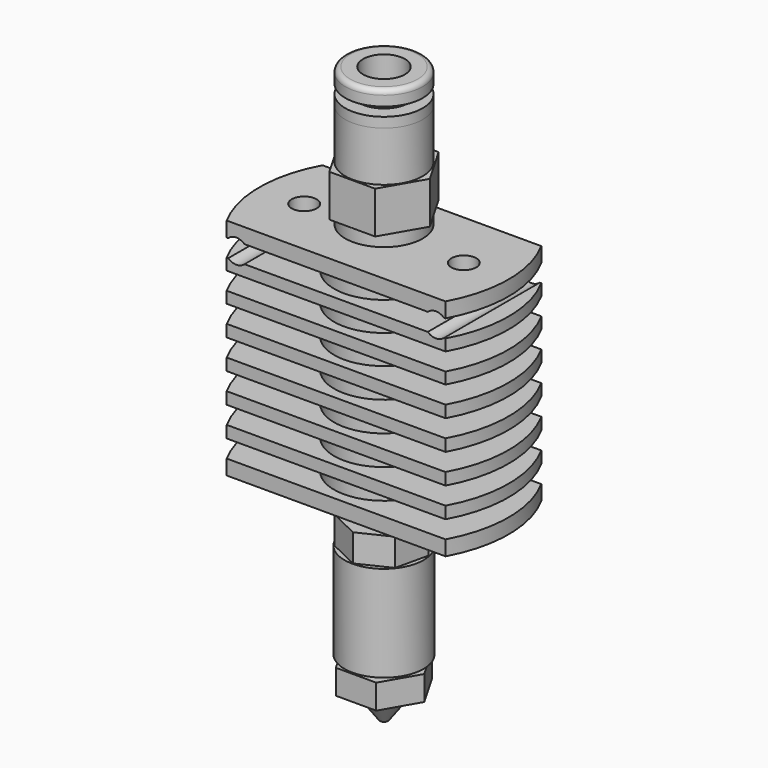
from build123d import *

# Parameters (mm, degrees)
F0_W      = 5
F0_H      = 1.5
F0_W_2    = 7.5
F0_H_2    = 1.7714285714
F0_H_3    = 1.15
F0_H_4    = 1.2
F2_W      = 21.9317121995
F2_H      = 6.5
F3_DEPTH  = 22.501
F5_D      = 4.2
F6_D      = 2.5
F6_DEPTH  = 2
F6_TIP    = 0.7510757738
F7_W      = 1.385
F7_H      = 19.28
F7_W_2    = 1.115
F7_H_2    = 2.3
F7_H_3    = 12.7
F10_DEPTH = 2.75
F12_D     = 3.3
F12_DEPTH = 5.5
F12_TIP   = 0.9914200214
F13_R     = 0.96
F14_DEPTH = 34.281
F15_R     = 3.96
F15_R_2   = 2.5
F16_DEPTH = 9.6
F19_R     = 0.97
F20_DEPTH = 2.47
F24_R     = 2.7289614246
F25_DEPTH = 4.22
F27_D     = 2.4


with BuildPart() as f1:
    # F0 (on Front) → F1 (revolve)
    with BuildSketch(Plane.XZ):
        with Locations((2.5, -0.75)):
            Rectangle(F0_W, F0_H)
        with Locations((8.75, -0.75)):
            Rectangle(F0_W_2, F0_H)
        with Locations((2.5, -2.3857142857)):
            Rectangle(F0_W, F0_H_2)
        with Locations((2.5, -3.8464285714)):
            Rectangle(F0_W, F0_H_3)
        with Locations((8.75, -3.8464285714)):
            Rectangle(F0_W_2, F0_H_3)
        with Locations((2.5, -5.3071428571)):
            Rectangle(F0_W, F0_H_2)
        with Locations((2.5, -6.7678571429)):
            Rectangle(F0_W, F0_H_3)
        with Locations((8.75, -6.7678571429)):
            Rectangle(F0_W_2, F0_H_3)
        with Locations((2.5, -8.2285714286)):
            Rectangle(F0_W, F0_H_2)
        with Locations((2.5, -9.7142857143)):
            Rectangle(F0_W, F0_H_4)
        with Locations((8.75, -9.7142857143)):
            Rectangle(F0_W_2, F0_H_4)
        with Locations((2.5, -11.2)):
            Rectangle(F0_W, F0_H_2)
        with Locations((2.5, -12.6857142857)):
            Rectangle(F0_W, F0_H_4)
        with Locations((8.75, -12.6857142857)):
            Rectangle(F0_W_2, F0_H_4)
        with Locations((2.5, -14.1714285714)):
            Rectangle(F0_W, F0_H_2)
        with Locations((2.5, -15.6571428571)):
            Rectangle(F0_W, F0_H_4)
        with Locations((8.75, -15.6571428571)):
            Rectangle(F0_W_2, F0_H_4)
        with Locations((2.5, -17.1428571429)):
            Rectangle(F0_W, F0_H_2)
        with Locations((2.5, -18.6285714286)):
            Rectangle(F0_W, F0_H_4)
        with Locations((8.75, -18.6285714286)):
            Rectangle(F0_W_2, F0_H_4)
        with Locations((2.5, -20.1142857143)):
            Rectangle(F0_W, F0_H_2)
        with Locations((2.5, -21.75)):
            Rectangle(F0_W, F0_H)
        with Locations((8.75, -21.75)):
            Rectangle(F0_W_2, F0_H)
    revolve(axis=Axis((0, 0, -15.0359268821), (0, 0, -1)))

    # F2 (on Top) → F3 (cut, through all)
    with BuildSketch(Plane.XY):
        with Locations((0, -9.25)):
            Rectangle(F2_W, F2_H)
        with Locations((0, 9.25)):
            Rectangle(F2_W, F2_H)
    extrude(amount=-F3_DEPTH, mode=Mode.SUBTRACT)

    # F5 (through all)
    with Locations(Plane.XY):
        with Locations((0, 0)):
            Hole(F5_D / 2)

    # F6
    with Locations(Plane.XY):
        with Locations((-8, 0), (8, 0)):
            Hole(F6_D / 2, depth=F6_DEPTH)
            with Locations((0, 0, -(F6_DEPTH + F6_TIP / 2))):  # 118° drill point
                Cone(0, F6_D / 2, F6_TIP, mode=Mode.SUBTRACT)

    # F27 (through all)
    with Locations(Plane.XZ.offset(6)):
        with Locations((-10, -2.3857142857), (10, -2.3857142857)):
            Hole(F27_D / 2)


with BuildPart() as f8:
    # F7 (on Front) → F8 (revolve)
    with BuildSketch(Plane.XZ):
        with Locations((0.6925, -12.86)):
            Rectangle(F7_W, F7_H)
        with Locations((1.9425, -12.86)):
            Rectangle(F7_W_2, F7_H)
        with Locations((0.6925, -23.65)):
            Rectangle(F7_W, F7_H_2)
        with Locations((0.6925, -31.15)):
            Rectangle(F7_W, F7_H_3)
        with Locations((1.9425, -31.15)):
            Rectangle(F7_W_2, F7_H_3)
    revolve(axis=Axis((0, 0, -14.0211293474), (0, 0, -1)))

    # F9 (on face) → F10 (join)
    with BuildSketch(Plane.XY.offset(-24.8)):
        Polygon((3.7873092114, 0.864428613), (1.6855111658, 3.5), (-1.6855111658, 3.5), (-3.7873092114, 0.864428613), (-3.0371861738, -2.4220751507), (0, -3.8847069246), (3.0371861738, -2.4220751507), align=None)
    extrude(amount=-F10_DEPTH)

    # F12
    with Locations(Plane(origin=(0, 0, -37.5), x_dir=(1, 0, 0), z_dir=(0, 0, -1))):
        with Locations((0, 0)):
            Hole(F12_D / 2, depth=F12_DEPTH)
            with Locations((0, 0, -(F12_DEPTH + F12_TIP / 2))):  # 118° drill point
                Cone(0, F12_D / 2, F12_TIP, mode=Mode.SUBTRACT)

    # F13 (on face) → F14 (cut, through all)
    with BuildSketch(Plane.XY.offset(-3.22)):
        Circle(F13_R)
    extrude(amount=-F14_DEPTH, mode=Mode.SUBTRACT)


with BuildPart() as f16:
    # F15 (on face) → F16 (new body)
    with BuildSketch(Plane(origin=(0, 0, -27.55), x_dir=(1, 0, 0), z_dir=(0, 0, -1))):
        Circle(F15_R)
        Circle(F15_R_2, mode=Mode.SUBTRACT)
    extrude(amount=F16_DEPTH)


with BuildPart() as f18:
    # F17 (on Front) → F18 (revolve)
    with BuildSketch(Plane.XZ):
        Polygon((1.945, -32.31), (0.97, -32.31), (0.97, -40.3963208782), (0.2, -41.73), (0.2, -42.9), (0.41, -42.9), (2.5, -40.04), (3.5, -40.04), (3.5, -37.57), (1.665, -37.57), (1.665, -36.31), (1.945, -36.31), align=None)
    revolve(axis=Axis((0, 0, -20.0307343887), (0, 0, -1)))

    # F19 (on face) → F20 (join, through all)
    with BuildSketch(Plane.XY.offset(-37.57)):
        Polygon((-4.0414518843, 0), (-2.0207259422, -3.5), (2.0207259422, -3.5), (4.0414518843, 0), (2.0207259422, 3.5), (-2.0207259422, 3.5), align=None)
        Circle(F19_R, mode=Mode.SUBTRACT)
    extrude(amount=-F20_DEPTH)


with BuildPart() as f22:
    # F21 (on Front) → F22 (revolve)
    with BuildSketch(Plane.XZ):
        Polygon((3.88, 11.3), (2.7289614246, 11.3), (2.7289614246, 1.8), (1.055, 1.8), (1.055, -3.2), (2.455, -3.2), (2.455, -0.05), (2.11, -0.05), (2.11, 0.8), (3.88, 0.8), align=None)
    revolve(axis=Axis((0, 0, -6.213388286), (0, 0, -1)))

    # F24 (on offset) → F25 (join)
    with BuildSketch(Plane(origin=(0, 0, 6.3), x_dir=(1, 0, 0), z_dir=(0, 0, -1))):
        Polygon((-4.5899346401, 0), (-2.29496732, -3.975), (2.29496732, -3.975), (4.5899346401, 0), (2.29496732, 3.975), (-2.29496732, 3.975), align=None)
        Circle(F24_R, mode=Mode.SUBTRACT)
    extrude(amount=F25_DEPTH)


with BuildPart() as f29:
    # F28 (on Front) → F29 (revolve)
    with BuildSketch(Plane.XZ):
        with BuildLine():
            Line((3.88, 11.3), (3.88, 12.3))
            Line((3.88, 12.3), (2.475, 12.3))
            Line((2.475, 12.3), (2.475, 13.2))
            Line((2.475, 13.2), (3.88, 13.2))
            Line((3.88, 13.2), (3.88, 14.2))
            ThreePointArc((3.88, 14.2), (3.7335533906, 14.5535533906), (3.38, 14.7))
            Line((3.38, 14.7), (2.095, 14.7))
            Line((2.095, 14.7), (2.095, 11.3))
            Line((2.095, 11.3), (3.88, 11.3))
        make_face()
    revolve(axis=Axis((0, 0, -6.213388286), (0, 0, -1)))


solid = Compound([f1.part, f8.part, f16.part, f18.part, f22.part, f29.part])
